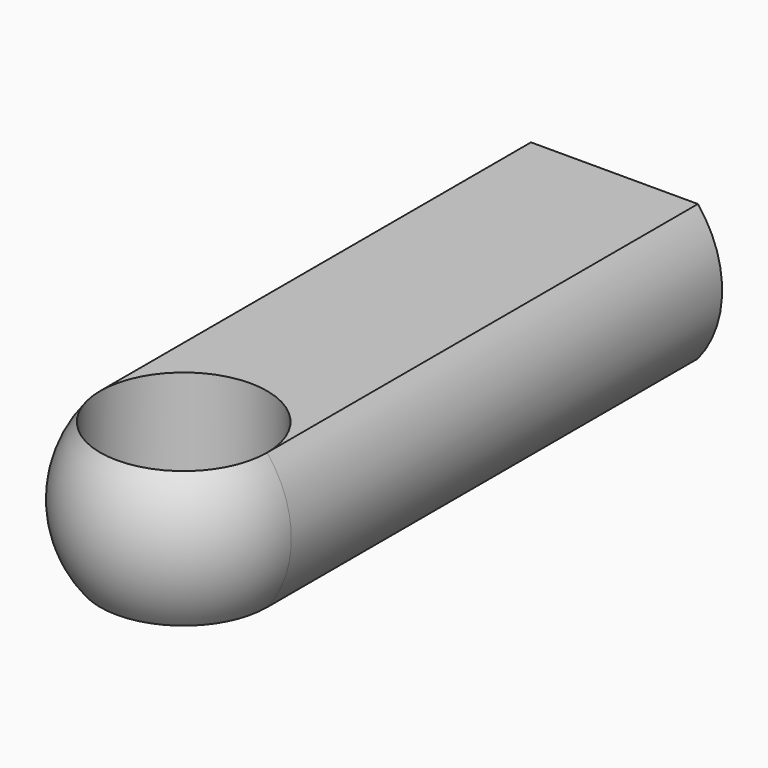
from build123d import *

# Parameters (mm, degrees)
F3_R     = 77.5
F4_DEPTH = 225.001
F7_DEPTH = 500
F8_R     = 77.5
F9_DEPTH = 163.1971232988


with BuildPart() as f1:
    # F0 (on Front) → F1 (revolve)
    with BuildSketch(Plane.XZ):
        with BuildLine():
            Line((0, 0), (0, 200))
            ThreePointArc((0, 200), (-100, 100), (0, 0))
        make_face()
    revolve(axis=Axis((0, 0, 100), (0, 0, -1)))

    # F3 (on offset) → F4 (cut, through all)
    with BuildSketch(Plane.XY.offset(-25)):
        Circle(F3_R)
    extrude(amount=F4_DEPTH, mode=Mode.SUBTRACT)

    # F6 (on face) → F7 (join)
    with BuildSketch(Plane(origin=(0, 0, 0), x_dir=(-1, 0, 0), z_dir=(0, 1, 0))):
        with BuildLine():
            ThreePointArc((77.5, 36.8038767012), (100, 100), (77.5, 163.1961232988))
            Line((77.5, 163.1961232988), (0, 163.1961232988))
            Line((0, 163.1961232988), (0, 36.8038767012))
            Line((0, 36.8038767012), (77.5, 36.8038767012))
        make_face()
        with BuildLine():
            Line((0, 36.8038767012), (0, 163.1961232988))
            Line((0, 163.1961232988), (-77.5, 163.1961232988))
            ThreePointArc((-77.5, 163.1961232988), (-100, 100), (-77.5, 36.8038767012))
            Line((-77.5, 36.8038767012), (0, 36.8038767012))
        make_face()
    extrude(amount=F7_DEPTH)

    # F8 (on Top) → F9 (cut, through all)
    with BuildSketch(Plane.XY):
        Circle(F8_R)
    extrude(amount=F9_DEPTH, mode=Mode.SUBTRACT)


solid = f1.part
